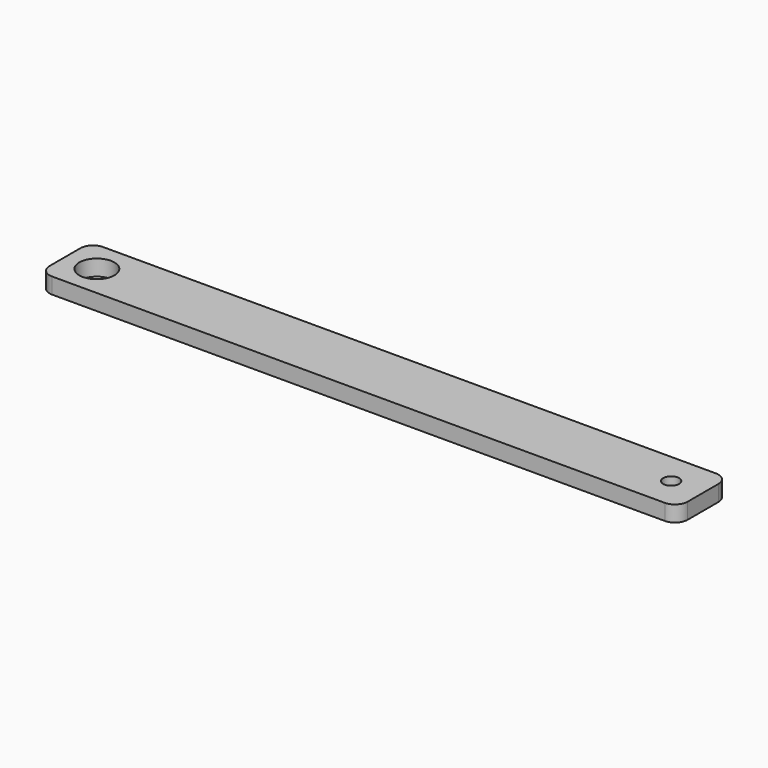
from build123d import *

# Parameters (mm, degrees)
F0_W     = 254
F0_H     = 6.35
F1_DEPTH = 25.4
F2_R     = 6.985
F2_R_2   = 3.175
F3_DEPTH = 25.4
F4_R     = 5.08


with BuildPart() as f1:
    # F0 (on Front) → F1 (new body)
    with BuildSketch(Plane.XZ):
        with Locations((127, 3.175)):
            Rectangle(F0_W, F0_H)
    extrude(amount=-F1_DEPTH)

    # F2 (on face) → F3 (cut)
    with BuildSketch(Plane.XY.offset(6.35)):
        with Locations((12.7, 12.7)):
            Circle(F2_R)
        with Locations((241.3, 12.7)):
            Circle(F2_R_2)
    extrude(amount=-F3_DEPTH, mode=Mode.SUBTRACT)

    # F4
    f4_edges = [f1.edges().sort_by_distance(p)[0] for p in [
        (254, 0, 3.175),
        (254, 25.4, 3.175),
        (0, 0, 3.175),
        (0, 25.4, 3.175),
    ]]
    fillet(f4_edges, radius=F4_R)


solid = f1.part
